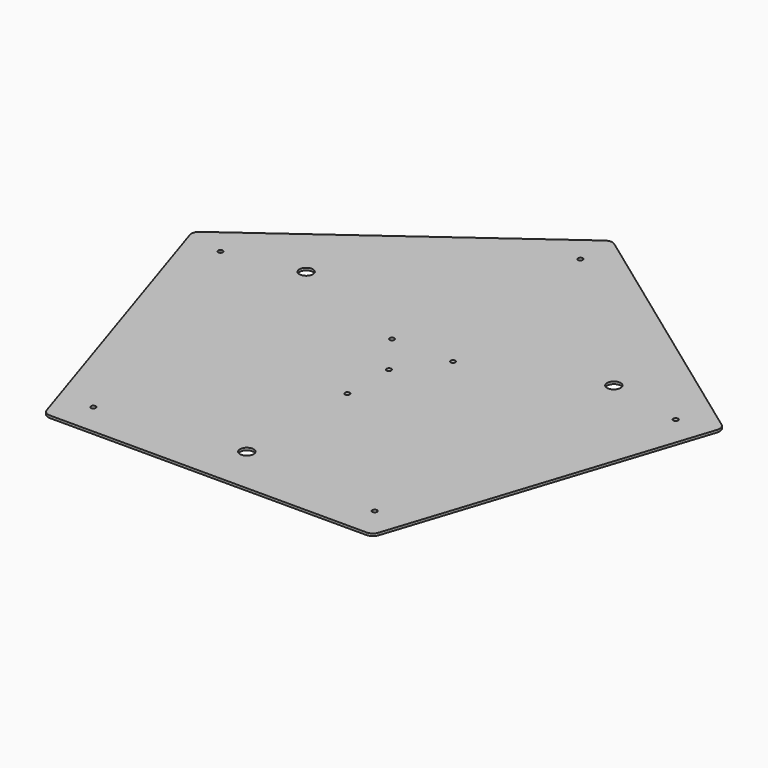
from build123d import *

# Parameters (mm, degrees)
SKETCH_R    = 8.5
SKETCH_R_2  = 3
PAD_DEPTH   = 3
SKETCH001_R = 3.05
HOLE_DEPTH  = 3.001
FILLET_R    = 10


with BuildPart() as part:
    # Sketch → Pad (new body)
    with BuildSketch(Plane.XY):
        Polygon((0, 350), (-332.869781, 108.155948), (-205.724838, -283.155948), (205.724838, -283.155948), (332.869781, 108.155948), align=None)
        with Locations((0, -222.705098)):
            Circle(SKETCH_R, mode=Mode.SUBTRACT)
        with Locations((-192.868273, 111.352549)):
            Circle(SKETCH_R, mode=Mode.SUBTRACT)
        with Locations((192.868273, 111.352549)):
            Circle(SKETCH_R, mode=Mode.SUBTRACT)
        with Locations((-176.335576, -242.705098)):
            Circle(SKETCH_R_2, mode=Mode.SUBTRACT)
        with Locations((176.335576, -242.705098)):
            Circle(SKETCH_R_2, mode=Mode.SUBTRACT)
        with Locations((285.316955, 92.705098)):
            Circle(SKETCH_R_2, mode=Mode.SUBTRACT)
        with Locations((-285.316955, 92.705098)):
            Circle(SKETCH_R_2, mode=Mode.SUBTRACT)
        with Locations((0, 300)):
            Circle(SKETCH_R_2, mode=Mode.SUBTRACT)
    extrude(amount=PAD_DEPTH)

    # Sketch001 (on Face15 of Pad) → Hole (cut, through all)
    with BuildSketch(Plane.XY.offset(3)):
        with Locations((-38.206041, 52.586105)):
            Circle(SKETCH001_R)
        with Locations((38.206041, 52.586105)):
            Circle(SKETCH001_R)
        with Locations((0, -65)):
            Circle(SKETCH001_R)
        Circle(SKETCH001_R)
    extrude(amount=-HOLE_DEPTH, mode=Mode.SUBTRACT)

    # Fillet
    fillet_edges = [part.edges().sort_by_distance(p)[0] for p in [
        (-332.869781, 108.155948, 1.5),
        (0, 350, 1.5),
        (332.869781, 108.155948, 1.5),
        (205.724838, -283.155948, 1.5),
        (-205.724838, -283.155948, 1.5),
    ]]
    fillet(fillet_edges, radius=FILLET_R)


solid = part.part
